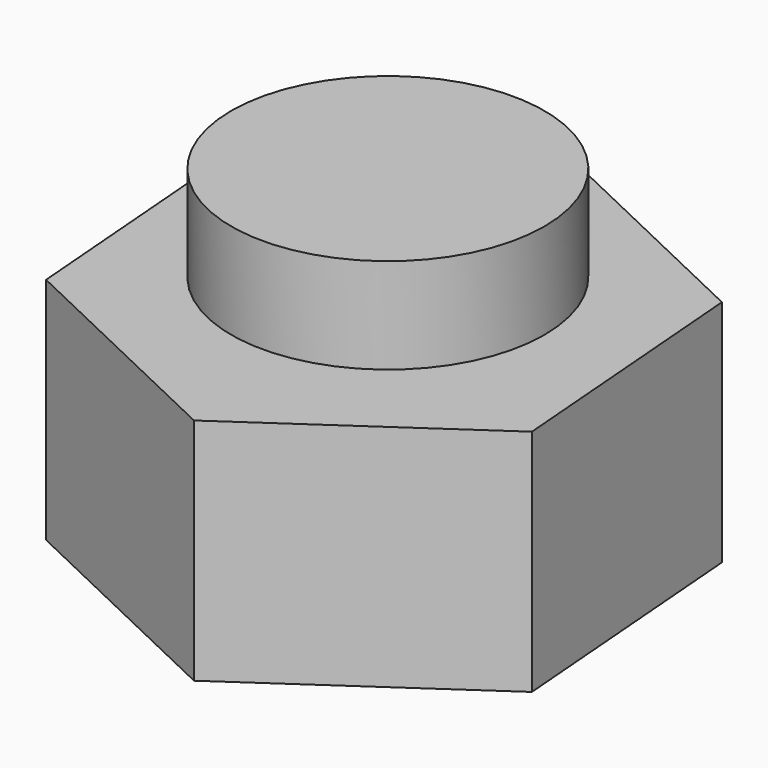
from build123d import *

# Parameters (mm, degrees)
F1_DEPTH = 60
F2_R     = 41.0093140969
F3_DEPTH = 25


with BuildPart() as f1:
    # F0 (on Top) → F1 (new body)
    with BuildSketch(Plane.XY):
        Polygon((111.0508568783, 217.1731047251), (53.9866397324, 177.8834735035), (59.4803499027, 108.8195961973), (122.0382772188, 79.0453501127), (179.1024943647, 118.3349813343), (173.6087841944, 187.3988586405), align=None)
    extrude(amount=F1_DEPTH)

    # F2 (on face) → F3 (join)
    with BuildSketch(Plane.XY.offset(60)):
        with Locations((113.3089438081, 153.4131914377)):
            Circle(F2_R)
    extrude(amount=F3_DEPTH)


solid = f1.part
